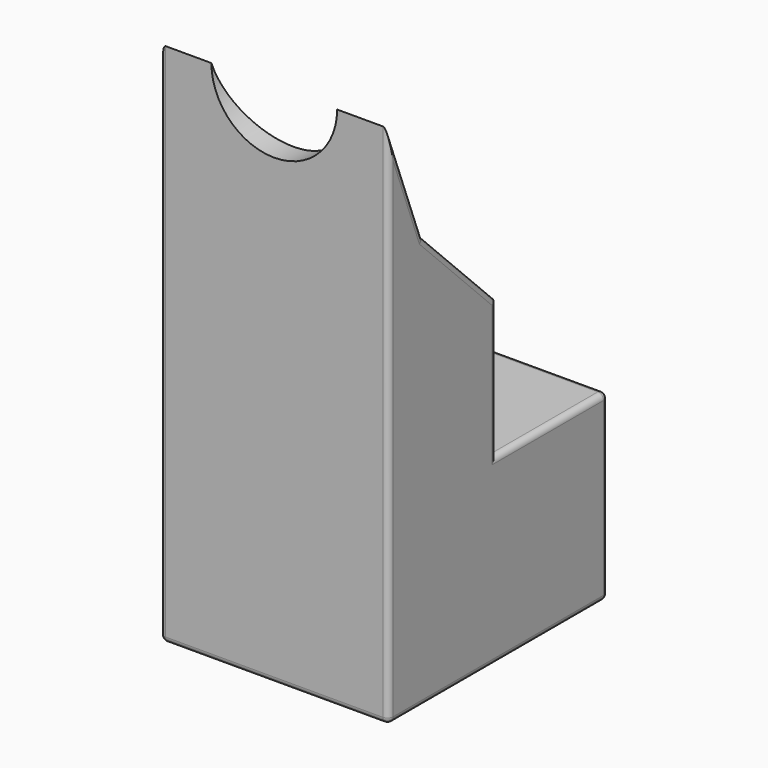
from build123d import *

# Parameters (mm, degrees)
F0_W      = 10
F0_H      = 12
F1_DEPTH  = 8
F2_W      = 10
F2_H      = 5.9
F3_DEPTH  = 15
F4_W      = 4
F4_H      = 5
F5_DEPTH  = 10
F7_DEPTH  = 25
F8_R      = 0.25
F9_R      = 1.25
F10_DEPTH = 4


with BuildPart() as f1:
    # F0 (on Top) → F1 (new body)
    with BuildSketch(Plane.XY):
        with Locations((5, 6)):
            Rectangle(F0_W, F0_H)
    extrude(amount=F1_DEPTH)

    # F2 (on face) → F3 (join)
    with BuildSketch(Plane.XY.offset(8)):
        with Locations((5, 2.95)):
            Rectangle(F2_W, F2_H)
    extrude(amount=F3_DEPTH)

    # F4 (on face) → F5 (cut, through all)
    with BuildSketch(Plane(origin=(0, 0, 0), x_dir=(0, -1, 0), z_dir=(-1, 0, 0))):
        Polygon((-1.9, 18), (-5.9, 18), (-5.9, 14), align=None)
        with Locations((-3.9, 20.5)):
            Rectangle(F4_W, F4_H)
        Polygon((-1.9, 23), (-1.9, 18), (0, 23), align=None)
    extrude(amount=-F5_DEPTH, mode=Mode.SUBTRACT)

    # F6 (on face) → F7 (cut)
    with BuildSketch(Plane.XZ):
        with BuildLine():
            ThreePointArc((2.25, 23), (5, 20.25), (7.75, 23))
            Line((7.75, 23), (2.25, 23))
        make_face()
    extrude(amount=-F7_DEPTH, mode=Mode.SUBTRACT)

    # F8
    f8_edges = [f1.edges().sort_by_distance(p)[0] for p in [
        (10, 6, 0),
        (10, 12, 4),
        (10, 8.95, 8),
        (10, 5.9, 11),
        (10, 3.9, 16),
        (10, 0.95, 20.5),
        (10, 0, 11.5),
        (0, 6, 0),
        (0, 0, 11.5),
        (0, 0.95, 20.5),
        (0, 3.9, 16),
        (0, 5.9, 11),
        (0, 8.95, 8),
        (0, 12, 4),
        (5, 12, 0),
        (5, 12, 8),
        (5, 0, 0),
    ]]
    fillet(f8_edges, radius=F8_R)

    # F9 (on face) → F10 (cut)
    with BuildSketch(Plane(origin=(0, 0, 0), x_dir=(1, 0, 0), z_dir=(0, 0, -1))):
        with Locations((5, -6)):
            Circle(F9_R)
    extrude(amount=-F10_DEPTH, mode=Mode.SUBTRACT)


solid = f1.part
